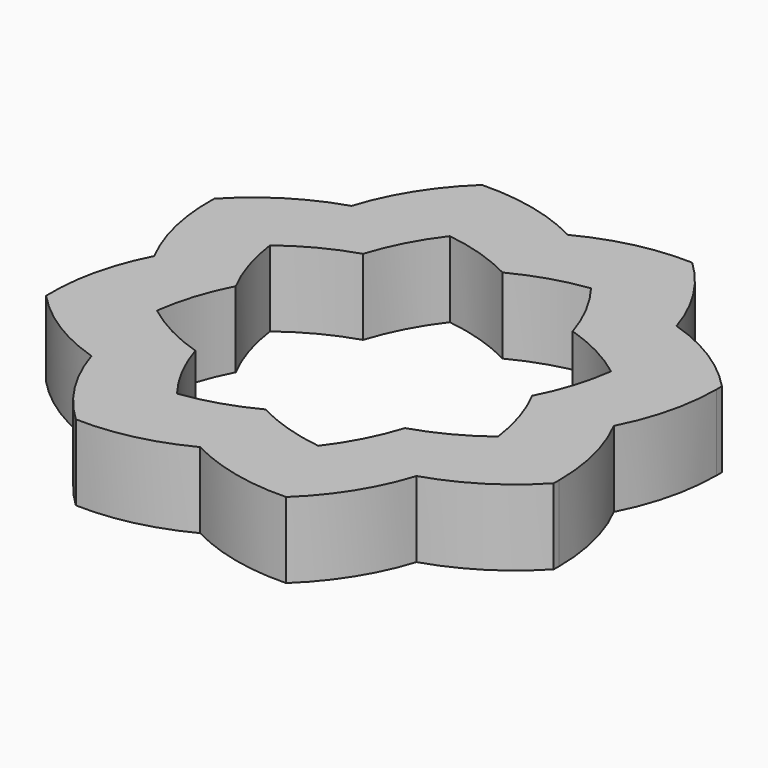
from build123d import *

# Parameters (mm, degrees)
F1_DEPTH = 25.4


with BuildPart() as f1:
    # F0 (on Top) → F1 (new body)
    with BuildSketch(Plane.XY):
        with BuildLine():
            ThreePointArc((77.0264520917, 0), (68.3872175724, -12.9250051294), (57.1564426084, -23.6749737054))
            ThreePointArc((57.1564426084, -23.6749737054), (57.6146397309, -28.3271271617), (57.7675904246, -32.9992875259))
            ThreePointArc((57.7675904246, -32.9992875259), (56.9373498992, -43.8588176414), (54.4659266048, -54.4659266048))
            ThreePointArc((54.4659266048, -54.4659266048), (71.0041966227, -46.8190807701), (85.0700339486, -35.2371618131))
            ThreePointArc((85.0700339486, -35.2371618131), (85.0963294305, -34.1183619899), (85.1050953083, -32.9992875259))
            ThreePointArc((85.1050953083, -32.9992875259), (83.0560475237, -16.0123995425), (77.0264520917, 0))
        make_face()
        with BuildLine():
            ThreePointArc((57.1564426084, -23.6749737054), (46.6475564841, -30.3690765533), (35.1353915207, -35.1353915208))
            ThreePointArc((35.1353915208, -35.1353915208), (30.3690765533, -46.6475564841), (23.6749737054, -57.1564426084))
            ThreePointArc((23.6749737054, -57.1564426084), (39.217706518, -57.4964240658), (54.4659266048, -54.4659266048))
            ThreePointArc((54.4659266048, -54.4659266048), (56.9373498992, -43.8588176414), (57.7675904246, -32.9992875259))
            ThreePointArc((57.7675904246, -32.9992875259), (57.6146397309, -28.3271271617), (57.1564426084, -23.6749737054))
        make_face()
        with BuildLine():
            ThreePointArc((57.1564426084, 23.6749737054), (54.4589834849, 11.5106235465), (49.6889472079, 0))
            ThreePointArc((49.6889472079, 0), (54.4589834849, -11.5106235465), (57.1564426084, -23.6749737054))
            ThreePointArc((57.1564426084, -23.6749737054), (68.3872175724, -12.9250051294), (77.0264520917, 0))
            ThreePointArc((77.0264520917, 0), (68.3872175724, 12.9250051294), (57.1564426084, 23.6749737054))
        make_face()
        with BuildLine():
            ThreePointArc((0, 49.6889472079), (11.5106235465, 54.4589834849), (23.6749737054, 57.1564426084))
            ThreePointArc((23.6749737054, 57.1564426084), (12.9250051294, 68.3872175724), (0, 77.0264520917))
            ThreePointArc((0, 77.0264520917), (-12.9250051294, 68.3872175724), (-23.6749737054, 57.1564426084))
            ThreePointArc((-23.6749737054, 57.1564426084), (-11.5106235465, 54.4589834849), (0, 49.6889472079))
        make_face()
        with BuildLine():
            ThreePointArc((57.7675904246, 32.9992875259), (57.6146397309, 28.3271271617), (57.1564426084, 23.6749737054))
            ThreePointArc((57.1564426084, 23.6749737054), (68.3872175724, 12.9250051294), (77.0264520917, 0))
            ThreePointArc((77.0264520917, 0), (83.0560475237, 16.0123995425), (85.1050953083, 32.9992875259))
            ThreePointArc((85.1050953083, 32.9992875259), (85.0963294305, 34.1183619899), (85.0700339486, 35.2371618131))
            ThreePointArc((85.0700339486, 35.2371618131), (71.0041966227, 46.8190807701), (54.4659266048, 54.4659266048))
            ThreePointArc((54.4659266048, 54.4659266048), (56.9373498992, 43.8588176414), (57.7675904246, 32.9992875259))
        make_face()
        with BuildLine():
            ThreePointArc((23.6749737054, 57.1564426084), (30.3690765533, 46.6475564841), (35.1353915208, 35.1353915208))
            ThreePointArc((35.1353915207, 35.1353915208), (46.6475564841, 30.3690765533), (57.1564426084, 23.6749737054))
            ThreePointArc((57.1564426084, 23.6749737054), (57.6146397309, 28.3271271617), (57.7675904246, 32.9992875259))
            ThreePointArc((57.7675904246, 32.9992875259), (56.9373498992, 43.8588176414), (54.4659266048, 54.4659266048))
            ThreePointArc((54.4659266048, 54.4659266048), (39.217706518, 57.4964240658), (23.6749737054, 57.1564426084))
        make_face()
        with BuildLine():
            ThreePointArc((-23.6749737054, 57.1564426084), (-12.9250051294, 68.3872175724), (0, 77.0264520917))
            ThreePointArc((0, 77.0264520917), (-17.1014594232, 83.313638426), (-35.2371618131, 85.0700339486))
            ThreePointArc((-35.2371618131, 85.0700339486), (-46.8190807701, 71.0041966227), (-54.4659266048, 54.4659266048))
            ThreePointArc((-54.4659266048, 54.4659266048), (-39.217706518, 57.4964240658), (-23.6749737054, 57.1564426084))
        make_face()
        with BuildLine():
            ThreePointArc((0, 77.0264520917), (12.9250051294, 68.3872175724), (23.6749737054, 57.1564426084))
            ThreePointArc((23.6749737054, 57.1564426084), (39.217706518, 57.4964240658), (54.4659266048, 54.4659266048))
            ThreePointArc((54.4659266048, 54.4659266048), (46.8190807701, 71.0041966227), (35.2371618131, 85.0700339486))
            ThreePointArc((35.2371618131, 85.0700339486), (17.1014594232, 83.313638426), (0, 77.0264520917))
        make_face()
        with BuildLine():
            ThreePointArc((-35.1353915208, 35.1353915208), (-30.3690765533, 46.6475564841), (-23.6749737054, 57.1564426084))
            ThreePointArc((-23.6749737054, 57.1564426084), (-39.217706518, 57.4964240658), (-54.4659266048, 54.4659266048))
            ThreePointArc((-54.4659266048, 54.4659266048), (-57.4964240658, 39.217706518), (-57.1564426084, 23.6749737054))
            ThreePointArc((-57.1564426084, 23.6749737054), (-46.6475564841, 30.3690765533), (-35.1353915208, 35.1353915208))
        make_face()
        with BuildLine():
            ThreePointArc((-85.0700339486, -35.2371618131), (-71.0041966227, -46.8190807701), (-54.4659266048, -54.4659266048))
            ThreePointArc((-54.4659266048, -54.4659266048), (-57.4964240658, -39.217706518), (-57.1564426084, -23.6749737054))
            ThreePointArc((-57.1564426084, -23.6749737054), (-68.3872175724, -12.9250051294), (-77.0264520917, 0))
            ThreePointArc((-77.0264520917, 0), (-83.313638426, -17.1014594232), (-85.0700339486, -35.2371618131))
        make_face()
        with BuildLine():
            ThreePointArc((-57.1564426084, 23.6749737054), (-57.4964240658, 39.217706518), (-54.4659266048, 54.4659266048))
            ThreePointArc((-54.4659266048, 54.4659266048), (-71.0041966227, 46.8190807701), (-85.0700339486, 35.2371618131))
            ThreePointArc((-85.0700339486, 35.2371618131), (-83.313638426, 17.1014594232), (-77.0264520917, 0))
            ThreePointArc((-77.0264520917, 0), (-68.3872175724, 12.9250051294), (-57.1564426084, 23.6749737054))
        make_face()
        with BuildLine():
            ThreePointArc((-77.0264520917, 0), (-68.3872175724, -12.9250051294), (-57.1564426084, -23.6749737054))
            ThreePointArc((-57.1564426084, -23.6749737054), (-54.4589834849, -11.5106235465), (-49.6889472079, 0))
            ThreePointArc((-49.6889472079, 0), (-54.4589834849, 11.5106235465), (-57.1564426084, 23.6749737054))
            ThreePointArc((-57.1564426084, 23.6749737054), (-68.3872175724, 12.9250051294), (-77.0264520917, 0))
        make_face()
        with BuildLine():
            ThreePointArc((-35.2371618131, -85.0700339486), (-17.1014594232, -83.313638426), (0, -77.0264520917))
            ThreePointArc((0, -77.0264520917), (-12.9250051294, -68.3872175724), (-23.6749737054, -57.1564426084))
            ThreePointArc((-23.6749737054, -57.1564426084), (-39.217706518, -57.4964240658), (-54.4659266048, -54.4659266048))
            ThreePointArc((-54.4659266048, -54.4659266048), (-46.8190807701, -71.0041966227), (-35.2371618131, -85.0700339486))
        make_face()
        with BuildLine():
            ThreePointArc((0, -77.0264520917), (12.9250051294, -68.3872175724), (23.6749737054, -57.1564426084))
            ThreePointArc((23.6749737054, -57.1564426084), (11.5106235465, -54.4589834849), (0, -49.6889472079))
            ThreePointArc((0, -49.6889472079), (-11.5106235465, -54.4589834849), (-23.6749737054, -57.1564426084))
            ThreePointArc((-23.6749737054, -57.1564426084), (-12.9250051294, -68.3872175724), (0, -77.0264520917))
        make_face()
        with BuildLine():
            ThreePointArc((-54.4659266048, -54.4659266048), (-39.217706518, -57.4964240658), (-23.6749737054, -57.1564426084))
            ThreePointArc((-23.6749737054, -57.1564426084), (-30.3690765533, -46.6475564841), (-35.1353915208, -35.1353915208))
            ThreePointArc((-35.1353915208, -35.1353915208), (-46.6475564841, -30.3690765533), (-57.1564426084, -23.6749737054))
            ThreePointArc((-57.1564426084, -23.6749737054), (-57.4964240658, -39.217706518), (-54.4659266048, -54.4659266048))
        make_face()
        with BuildLine():
            ThreePointArc((54.4659266048, -54.4659266048), (39.217706518, -57.4964240658), (23.6749737054, -57.1564426084))
            ThreePointArc((23.6749737054, -57.1564426084), (12.9250051294, -68.3872175724), (0, -77.0264520917))
            ThreePointArc((0, -77.0264520917), (17.1014594232, -83.313638426), (35.2371618131, -85.0700339486))
            ThreePointArc((35.2371618131, -85.0700339486), (46.8190807701, -71.0041966227), (54.4659266048, -54.4659266048))
        make_face()
    extrude(amount=F1_DEPTH)


solid = f1.part
